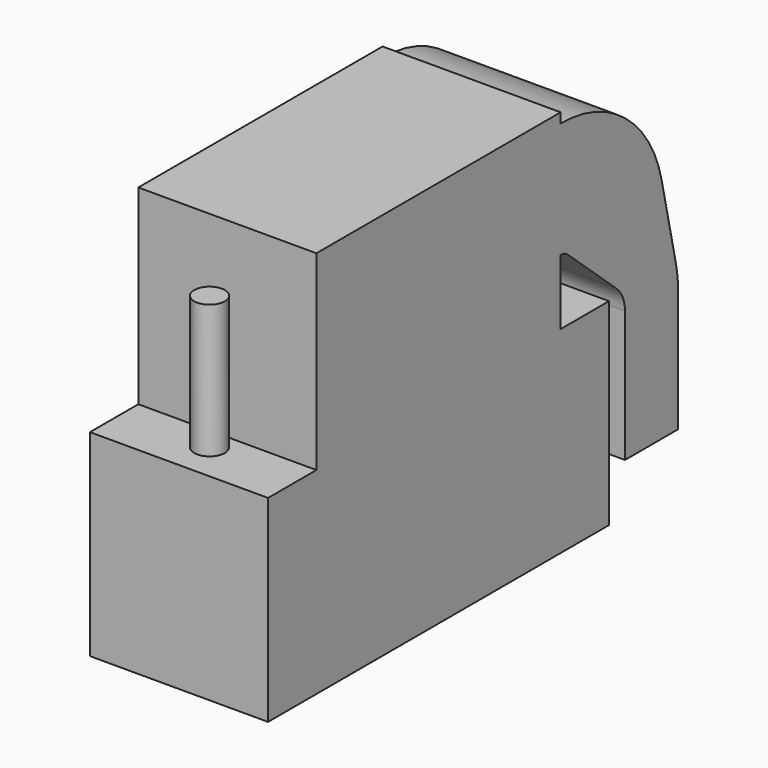
from build123d import *

# Parameters (mm, degrees)
PAD008_DEPTH = 14
SKETCH012_R  = 1.2
SKETCH012_W  = 24
SKETCH012_H  = 13
PAD007_DEPTH = 16
BOX038_W     = 14
BOX038_H     = 24
BOX038_DEPTH = 29.5
BOX037_W     = 14
BOX037_H     = 33.5
BOX037_DEPTH = 15.5


with BuildPart() as pad008:
    # Sketch013 → Pad008 (new body)
    with BuildSketch(Plane.YZ.offset(-232)):
        with BuildLine():
            Line((58.746344, 151.629037), (56.780618, 151.629037))
            Line((56.780618, 151.629037), (56.780618, 160.732927))
            Line((56.780618, 160.732927), (58.746348, 160.732927))
            ThreePointArc((68.674081, 152.764142), (65.111515, 158.494314), (58.746348, 160.732927))
            Line((70.065189, 146.485826), (68.674081, 152.764142))
            ThreePointArc((70.282905, 144.496813), (70.228314, 145.49726), (70.065189, 146.485826))
            Line((70.282905, 134.870576), (70.282905, 144.496813))
            Line((65.069016, 134.870576), (70.282905, 134.870576))
            Line((65.069016, 145.176214), (65.069016, 134.870576))
            ThreePointArc((65.069016, 145.176214), (64.846538, 146.220855), (64.217716, 147.084195))
            Line((59.457466, 151.35671), (64.217716, 147.084195))
            ThreePointArc((59.457466, 151.35671), (59.127086, 151.558628), (58.746344, 151.629037))
        make_face()
    extrude(amount=-PAD008_DEPTH)


with BuildPart() as pad007:
    # Sketch012 → Pad007 (new body)
    with BuildSketch(Plane(origin=(-119, 23.5, 141), x_dir=(0, 1, 0), z_dir=(0, 0, 1))):
        with Locations((37, 120)):
            Circle(SKETCH012_R)
        with Locations((9.5, 120)):
            Circle(SKETCH012_R)
        with Locations((23.25, 120)):
            Rectangle(SKETCH012_W, SKETCH012_H)
    extrude(amount=PAD007_DEPTH)


with BuildPart() as cubo014:
    # Box038 → Box038 (new body)
    with BuildSketch(Plane(origin=(-246, 34.75, 132), x_dir=(1, 0, 0), z_dir=(0, 0, 1))):
        with Locations((7, 12)):
            Rectangle(BOX038_W, BOX038_H)
    extrude(amount=BOX038_DEPTH)


with BuildPart() as head_positive_cut:
    # Box037 → Box037 (new body)
    with BuildSketch(Plane(origin=(-246, 30, 131), x_dir=(1, 0, 0), z_dir=(0, 0, 1))):
        with Locations((7, 16.75)):
            Rectangle(BOX037_W, BOX037_H)
    extrude(amount=BOX037_DEPTH)

    # Fusion035: union Pad008, Pad007, Cubo014
    add(pad008.part)
    add(pad007.part)
    add(cubo014.part)


solid = head_positive_cut.part
